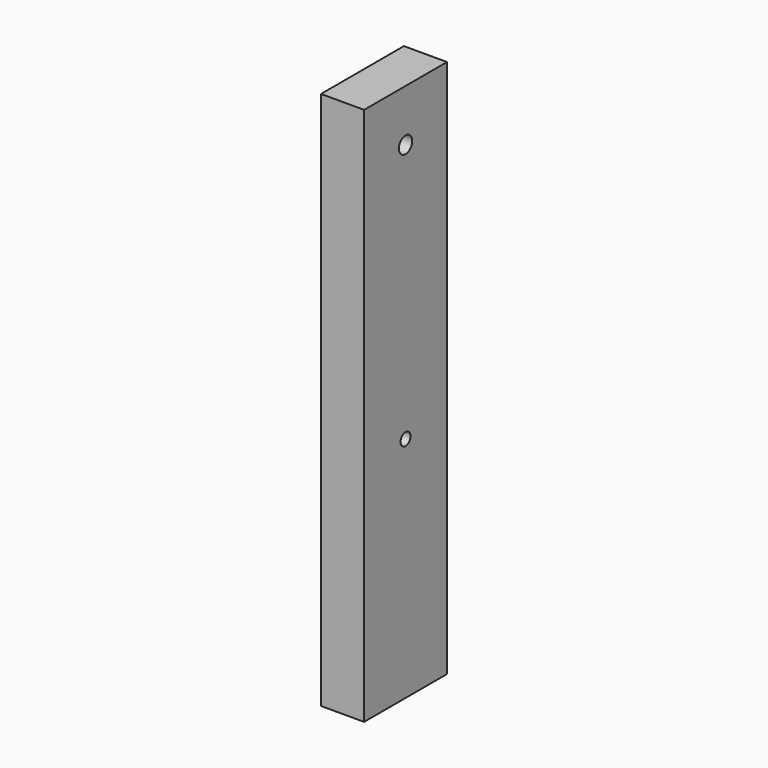
from build123d import *

# Parameters (mm, degrees)
SKETCH_W        = 10.4
SKETCH_H        = 25
PAD_DEPTH       = 130
SKETCH001_R     = 1.5
POCKET_DEPTH    = 100
SKETCH002_R     = 2
POCKET001_DEPTH = 100


with BuildPart() as part:
    # Sketch → Pad (new body)
    with BuildSketch(Plane.XY):
        Rectangle(SKETCH_W, SKETCH_H)
    extrude(amount=PAD_DEPTH)

    # Sketch001 (on Face2 of Pad) → Pocket (cut)
    with BuildSketch(Plane.YZ.offset(5.2)):
        with Locations((0, 55)):
            Circle(SKETCH001_R)
    extrude(amount=-POCKET_DEPTH, mode=Mode.SUBTRACT)

    # Sketch002 (on Face3 of Pocket) → Pocket001 (cut)
    with BuildSketch(Plane.YZ.offset(5.2)):
        with Locations((0, 117.5)):
            Circle(SKETCH002_R)
    extrude(amount=-POCKET001_DEPTH, mode=Mode.SUBTRACT)


solid = part.part
